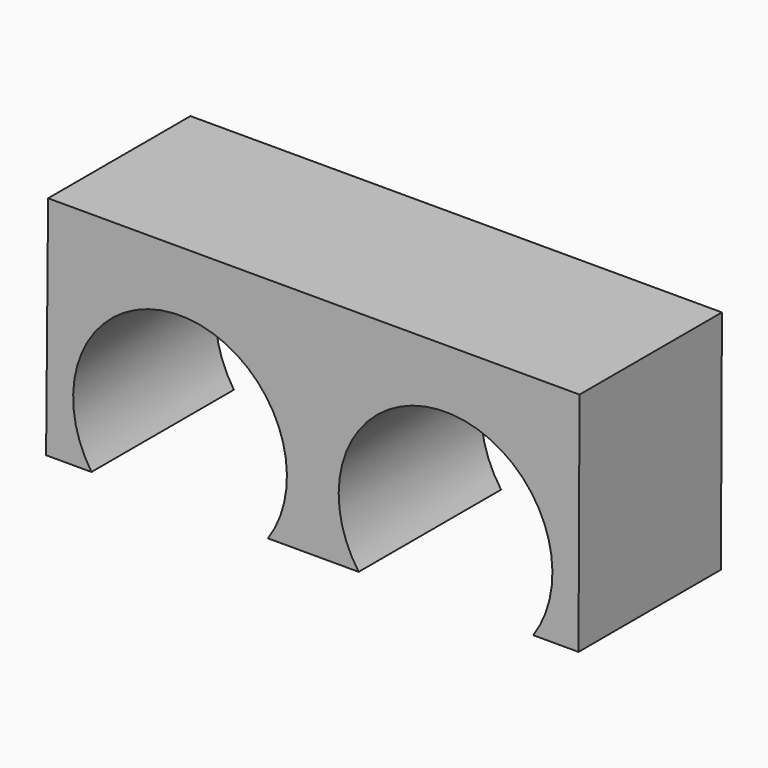
from build123d import *

# Parameters (mm, degrees)
F1_DEPTH = 50.8


with BuildPart() as f1:
    # F0 (on Front) → F1 (new body)
    with BuildSketch(Plane.XZ):
        with BuildLine():
            Line((75.980715, 8.921978), (-75.692914, 8.921978))
            Line((-75.692914, 8.921978), (-76.268524, -55.834316))
            Line((-76.268524, -55.834316), (-63.317269, -55.834316))
            ThreePointArc((-63.317269, -55.834316), (-37.861546, -8.253128), (-12.951259, -56.122124))
            Line((-12.951259, -56.122124), (0, -56.122124))
            Line((0, -56.122124), (12.951258, -56.122124))
            ThreePointArc((12.951258, -56.122124), (37.568264, -7.85105), (62.74166, -55.834316))
            Line((62.74166, -55.834316), (75.692914, -55.834316))
            Line((75.692914, -55.834316), (75.980715, 8.921978))
        make_face()
    extrude(amount=F1_DEPTH)


solid = f1.part
